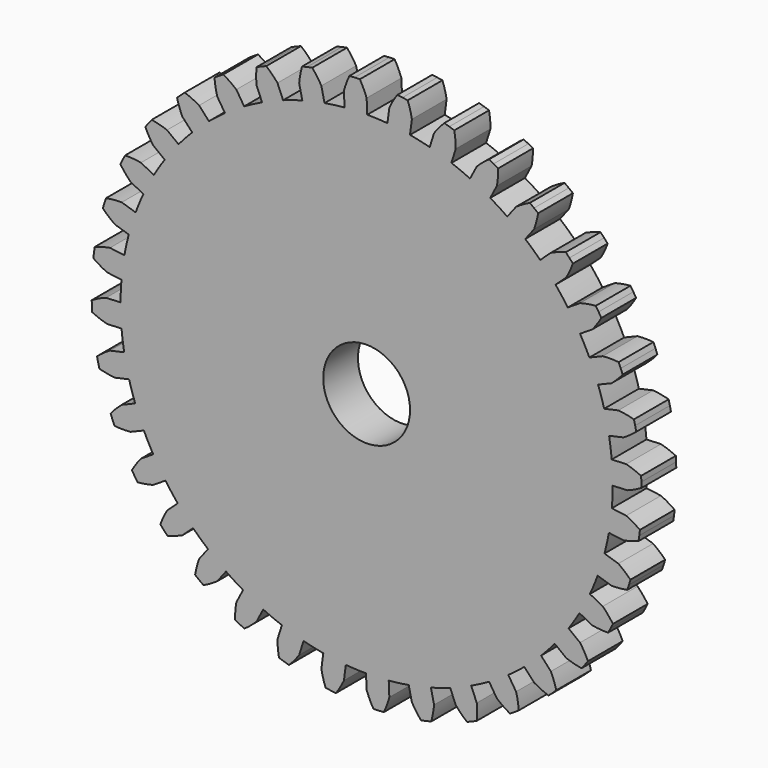
from build123d import *

# Parameters (mm, degrees)
F0_R     = 6.35
F1_DEPTH = 6.35


with BuildPart() as f1:
    # F0 (on Front) → F1 (new body)
    with BuildSketch(Plane.XZ):
        with BuildLine():
            Line((-3.320609, 37.954731), (-3.228016, 35.834))
            ThreePointArc((-3.228016, 35.834), (-4.696215, 35.671294), (-6.156498, 35.448458))
            ThreePointArc((-6.156498, 35.448458), (-7.787303, 35.126252), (-9.401484, 34.729062))
            ThreePointArc((-9.401484, 34.729062), (-10.819124, 34.313878), (-12.218527, 33.840852))
            ThreePointArc((-12.218527, 33.840852), (-13.768605, 33.240354), (-15.289292, 32.568899))
            ThreePointArc((-15.289292, 32.568899), (-16.6133, 31.913851), (-17.909302, 31.205008))
            ThreePointArc((-17.909302, 31.205008), (-19.331556, 30.344465), (-20.712543, 29.419146))
            ThreePointArc((-20.712543, 29.419146), (-21.902688, 28.544139), (-23.055913, 27.621016))
            ThreePointArc((-23.055913, 27.621016), (-24.307128, 26.526575), (-25.506455, 25.375508))
            ThreePointArc((-25.506455, 25.375508), (-26.526575, 24.307128), (-27.501981, 23.197774))
            ThreePointArc((-27.501981, 23.197774), (-28.544139, 21.902688), (-29.525365, 20.560848))
            ThreePointArc((-29.525365, 20.560848), (-30.344465, 19.331556), (-31.112415, 18.069678))
            ThreePointArc((-31.112415, 18.069678), (-31.913851, 16.6133), (-32.647162, 15.121456))
            ThreePointArc((-32.647162, 15.121456), (-33.240354, 13.768605), (-33.777514, 12.392545))
            ThreePointArc((-33.777514, 12.392545), (-34.313878, 10.819124), (-34.776992, 9.222607))
            ThreePointArc((-34.776992, 9.222607), (-35.126252, 7.787303), (-35.416301, 6.338871))
            ThreePointArc((-35.416301, 6.338871), (-35.671294, 4.696215), (-35.85014, 3.043534))
            ThreePointArc((-35.85014, 3.043534), (-35.944856, 1.569386), (-35.978981, 0.092593))
            ThreePointArc((-35.978981, 0.092593), (-35.944856, -1.569386), (-35.834, -3.228016))
            ThreePointArc((-35.834, -3.228016), (-35.671294, -4.696215), (-35.448458, -6.156498))
            ThreePointArc((-35.448458, -6.156498), (-35.126252, -7.787303), (-34.729062, -9.401484))
            ThreePointArc((-34.729062, -9.401484), (-34.313878, -10.819124), (-33.840852, -12.218527))
            ThreePointArc((-33.840852, -12.218527), (-33.240354, -13.768605), (-32.568899, -15.289292))
            ThreePointArc((-32.568899, -15.289292), (-31.913851, -16.6133), (-31.205008, -17.909302))
            ThreePointArc((-31.205008, -17.909302), (-30.344465, -19.331556), (-29.419146, -20.712543))
            ThreePointArc((-29.419146, -20.712543), (-28.544139, -21.902688), (-27.621016, -23.055913))
            ThreePointArc((-27.621016, -23.055913), (-26.526575, -24.307128), (-25.375508, -25.506455))
            ThreePointArc((-25.375508, -25.506455), (-24.307128, -26.526575), (-23.197774, -27.501981))
            ThreePointArc((-23.197774, -27.501981), (-21.902688, -28.544139), (-20.560848, -29.525365))
            ThreePointArc((-20.560848, -29.525365), (-19.331556, -30.344465), (-18.069678, -31.112415))
            ThreePointArc((-18.069678, -31.112415), (-16.6133, -31.913851), (-15.121456, -32.647162))
            ThreePointArc((-15.121456, -32.647162), (-13.768605, -33.240354), (-12.392545, -33.777514))
            ThreePointArc((-12.392545, -33.777514), (-10.819124, -34.313878), (-9.222607, -34.776992))
            ThreePointArc((-9.222607, -34.776992), (-7.787303, -35.126252), (-6.338871, -35.416301))
            ThreePointArc((-6.338871, -35.416301), (-4.696215, -35.671294), (-3.043534, -35.85014))
            ThreePointArc((-3.043534, -35.85014), (-1.569386, -35.944856), (-0.092593, -35.978981))
            ThreePointArc((-0.092593, -35.978981), (1.569386, -35.944856), (3.228016, -35.834))
            ThreePointArc((3.228016, -35.834), (4.696215, -35.671294), (6.156498, -35.448458))
            ThreePointArc((6.156498, -35.448458), (7.787303, -35.126252), (9.401484, -34.729062))
            ThreePointArc((9.401484, -34.729062), (10.819124, -34.313878), (12.218527, -33.840852))
            ThreePointArc((12.218527, -33.840852), (13.768605, -33.240354), (15.289292, -32.568899))
            ThreePointArc((15.289292, -32.568899), (16.6133, -31.913851), (17.909302, -31.205008))
            ThreePointArc((17.909302, -31.205008), (19.331556, -30.344465), (20.712543, -29.419146))
            ThreePointArc((20.712543, -29.419146), (21.902688, -28.544139), (23.055913, -27.621016))
            ThreePointArc((23.055913, -27.621016), (24.307128, -26.526575), (25.506455, -25.375508))
            ThreePointArc((25.506455, -25.375508), (26.526575, -24.307128), (27.501981, -23.197774))
            ThreePointArc((27.501981, -23.197774), (28.544139, -21.902688), (29.525365, -20.560848))
            ThreePointArc((29.525365, -20.560848), (30.344465, -19.331556), (31.112415, -18.069678))
            ThreePointArc((31.112415, -18.069678), (31.913851, -16.6133), (32.647162, -15.121456))
            ThreePointArc((32.647162, -15.121456), (33.240354, -13.768605), (33.777514, -12.392545))
            ThreePointArc((33.777514, -12.392545), (34.313878, -10.819124), (34.776992, -9.222607))
            ThreePointArc((34.776992, -9.222607), (35.126252, -7.787303), (35.416301, -6.338871))
            ThreePointArc((35.416301, -6.338871), (35.671294, -4.696215), (35.85014, -3.043534))
            ThreePointArc((35.85014, -3.043534), (35.944856, -1.569386), (35.978981, -0.092593))
            ThreePointArc((35.978981, -0.092593), (35.944856, 1.569386), (35.834, 3.228016))
            ThreePointArc((35.834, 3.228016), (35.671294, 4.696215), (35.448458, 6.156498))
            ThreePointArc((35.448458, 6.156498), (35.126252, 7.787303), (34.729062, 9.401484))
            ThreePointArc((34.729062, 9.401484), (34.313878, 10.819124), (33.840852, 12.218527))
            ThreePointArc((33.840852, 12.218527), (33.240354, 13.768605), (32.568899, 15.289292))
            ThreePointArc((32.568899, 15.289292), (31.913851, 16.6133), (31.205008, 17.909302))
            ThreePointArc((31.205008, 17.909302), (30.344465, 19.331556), (29.419146, 20.712543))
            ThreePointArc((29.419146, 20.712543), (28.544139, 21.902688), (27.621016, 23.055913))
            ThreePointArc((27.621016, 23.055913), (26.526575, 24.307128), (25.375508, 25.506455))
            ThreePointArc((25.375508, 25.506455), (24.307128, 26.526575), (23.197774, 27.501981))
            ThreePointArc((23.197774, 27.501981), (21.902688, 28.544139), (20.560848, 29.525365))
            ThreePointArc((20.560848, 29.525365), (19.331556, 30.344465), (18.069678, 31.112415))
            ThreePointArc((18.069678, 31.112415), (16.6133, 31.913851), (15.121456, 32.647162))
            ThreePointArc((15.121456, 32.647162), (13.768605, 33.240354), (12.392545, 33.777514))
            ThreePointArc((12.392545, 33.777514), (10.819124, 34.313878), (9.222607, 34.776992))
            ThreePointArc((9.222607, 34.776992), (7.787303, 35.126252), (6.338871, 35.416301))
            ThreePointArc((6.338871, 35.416301), (4.696215, 35.671294), (3.043534, 35.85014))
            ThreePointArc((3.043534, 35.85014), (1.569386, 35.944856), (0.092593, 35.978981))
            Line((0.092593, 35.978981), (0, 38.099712))
            ThreePointArc((0, 38.099712), (-0.446226, 39.170474), (-0.988291, 40.196052))
            Line((-0.988291, 40.196052), (-1.754175, 40.177222))
            Line((-1.754175, 40.177222), (-2.518786, 40.12923))
            ThreePointArc((-2.518786, 40.12923), (-2.969404, 39.060309), (-3.320609, 37.954731))
        make_face()
        Circle(F0_R, mode=Mode.SUBTRACT)
        with BuildLine():
            ThreePointArc((-9.401484, 34.729062), (-7.787303, 35.126252), (-6.156498, 35.448458))
            Line((-6.156498, 35.448458), (-6.615946, 37.520892))
            ThreePointArc((-6.615946, 37.520892), (-7.241328, 38.4979), (-7.953248, 39.413769))
            Line((-7.953248, 39.413769), (-8.704227, 39.26223))
            Line((-8.704227, 39.26223), (-9.448888, 39.082194))
            ThreePointArc((-9.448888, 39.082194), (-9.707044, 37.951264), (-9.860931, 36.801496))
            Line((-9.860931, 36.801496), (-9.401484, 34.729062))
        make_face()
        with BuildLine():
            ThreePointArc((-15.289292, 32.568899), (-13.768605, 33.240354), (-12.218527, 33.840852))
            Line((-12.218527, 33.840852), (-13.030869, 35.802019))
            ThreePointArc((-13.030869, 35.802019), (-13.816406, 36.655587), (-14.67655, 37.433918))
            Line((-14.67655, 37.433918), (-15.389805, 37.154275))
            Line((-15.389805, 37.154275), (-16.09189, 36.847665))
            ThreePointArc((-16.09189, 36.847665), (-16.14974, 35.689088), (-16.101634, 34.530066))
            Line((-16.101634, 34.530066), (-15.289292, 32.568899))
        make_face()
        with BuildLine():
            ThreePointArc((-20.712543, 29.419146), (-19.331556, 30.344465), (-17.909302, 31.205008))
            Line((-17.909302, 31.205008), (-19.049856, 32.995319))
            ThreePointArc((-19.049856, 32.995319), (-19.97168, 33.699512), (-20.953912, 34.316657))
            Line((-20.953912, 34.316657), (-21.607771, 33.917407))
            Line((-21.607771, 33.917407), (-22.245948, 33.493539))
            ThreePointArc((-22.245948, 33.493539), (-22.101734, 32.342518), (-21.853097, 31.209457))
            Line((-21.853097, 31.209457), (-20.712543, 29.419146))
        make_face()
        with BuildLine():
            ThreePointArc((-25.506455, 25.375508), (-24.307128, 26.526575), (-23.055913, 27.621016))
            Line((-23.055913, 27.621016), (-24.490023, 29.186073))
            ThreePointArc((-24.490023, 29.186073), (-25.520124, 29.719495), (-26.5946, 30.156701))
            Line((-26.5946, 30.156701), (-27.169197, 29.649975))
            Line((-27.169197, 29.649975), (-27.724074, 29.121729))
            ThreePointArc((-27.724074, 29.121729), (-27.382178, 28.013237), (-26.940565, 26.940565))
            Line((-26.940565, 26.940565), (-25.506455, 25.375508))
        make_face()
        with BuildLine():
            Line((3.320609, 37.954731), (3.043534, 35.85014))
            ThreePointArc((3.043534, 35.85014), (4.696215, 35.671294), (6.338871, 35.416301))
            Line((6.338871, 35.416301), (6.615946, 37.520892))
            ThreePointArc((6.615946, 37.520892), (6.362435, 38.652872), (6.006694, 39.756999))
            Line((6.006694, 39.756999), (5.249176, 39.871449))
            Line((5.249176, 39.871449), (4.487847, 39.956959))
            ThreePointArc((4.487847, 39.956959), (3.858459, 38.982527), (3.320609, 37.954731))
        make_face()
        with BuildLine():
            ThreePointArc((-29.525365, 20.560848), (-28.544139, 21.902688), (-27.501981, 23.197774))
            Line((-27.501981, 23.197774), (-29.186073, 24.490023))
            ThreePointArc((-29.186073, 24.490023), (-30.293152, 24.836466), (-31.427224, 25.080449))
            Line((-31.427224, 25.080449), (-31.9051, 24.481644))
            Line((-31.9051, 24.481644), (-32.359818, 23.865069))
            ThreePointArc((-32.359818, 23.865069), (-31.830629, 22.832787), (-31.209457, 21.853097))
            Line((-31.209457, 21.853097), (-29.525365, 20.560848))
        make_face()
        with BuildLine():
            Line((9.860931, 36.801496), (9.222607, 34.776992))
            ThreePointArc((9.222607, 34.776992), (10.819124, 34.313878), (12.392545, 33.777514))
            Line((12.392545, 33.777514), (13.030869, 35.802019))
            ThreePointArc((13.030869, 35.802019), (12.977776, 36.960823), (12.819169, 38.109949))
            Line((12.819169, 38.109949), (12.093033, 38.354202))
            Line((12.093033, 38.354202), (11.35812, 38.570616))
            ThreePointArc((11.35812, 38.570616), (10.569086, 37.72028), (9.860931, 36.801496))
        make_face()
        with BuildLine():
            ThreePointArc((-32.647162, 15.121456), (-31.913851, 16.6133), (-31.112415, 18.069678))
            Line((-31.112415, 18.069678), (-32.995319, 19.049856))
            ThreePointArc((-32.995319, 19.049856), (-34.145738, 19.198794), (-35.304948, 19.242141))
            Line((-35.304948, 19.242141), (-35.671582, 18.56945))
            Line((-35.671582, 18.56945), (-36.012325, 17.883282))
            ThreePointArc((-36.012325, 17.883282), (-35.311922, 16.958575), (-34.530066, 16.101634))
            Line((-34.530066, 16.101634), (-32.647162, 15.121456))
        make_face()
        with BuildLine():
            Line((16.101634, 34.530066), (15.121456, 32.647162))
            ThreePointArc((15.121456, 32.647162), (16.6133, 31.913851), (18.069678, 31.112415))
            Line((18.069678, 31.112415), (19.049856, 32.995319))
            ThreePointArc((19.049856, 32.995319), (19.198794, 34.145738), (19.242141, 35.304948))
            Line((19.242141, 35.304948), (18.56945, 35.671582))
            Line((18.56945, 35.671582), (17.883282, 36.012325))
            ThreePointArc((17.883282, 36.012325), (16.958575, 35.311922), (16.101634, 34.530066))
        make_face()
        with BuildLine():
            ThreePointArc((-34.776992, 9.222607), (-34.313878, 10.819124), (-33.777514, 12.392545))
            Line((-33.777514, 12.392545), (-35.802019, 13.030869))
            ThreePointArc((-35.802019, 13.030869), (-36.960823, 12.977776), (-38.109949, 12.819169))
            Line((-38.109949, 12.819169), (-38.354202, 12.093033))
            Line((-38.354202, 12.093033), (-38.570616, 11.35812))
            ThreePointArc((-38.570616, 11.35812), (-37.72028, 10.569086), (-36.801496, 9.860931))
            Line((-36.801496, 9.860931), (-34.776992, 9.222607))
        make_face()
        with BuildLine():
            Line((21.853097, 31.209457), (20.560848, 29.525365))
            ThreePointArc((20.560848, 29.525365), (21.902688, 28.544139), (23.197774, 27.501981))
            Line((23.197774, 27.501981), (24.490023, 29.186073))
            ThreePointArc((24.490023, 29.186073), (24.836466, 30.293152), (25.080449, 31.427224))
            Line((25.080449, 31.427224), (24.481644, 31.9051))
            Line((24.481644, 31.9051), (23.865069, 32.359818))
            ThreePointArc((23.865069, 32.359818), (22.832787, 31.830629), (21.853097, 31.209457))
        make_face()
        with BuildLine():
            ThreePointArc((-35.85014, 3.043534), (-35.671294, 4.696215), (-35.416301, 6.338871))
            Line((-35.416301, 6.338871), (-37.520892, 6.615946))
            ThreePointArc((-37.520892, 6.615946), (-38.652872, 6.362435), (-39.756999, 6.006694))
            Line((-39.756999, 6.006694), (-39.871449, 5.249176))
            Line((-39.871449, 5.249176), (-39.956959, 4.487847))
            ThreePointArc((-39.956959, 4.487847), (-38.982527, 3.858459), (-37.954731, 3.320609))
            Line((-37.954731, 3.320609), (-35.85014, 3.043534))
        make_face()
        with BuildLine():
            Line((26.940565, 26.940565), (25.375508, 25.506455))
            ThreePointArc((25.375508, 25.506455), (26.526575, 24.307128), (27.621016, 23.055913))
            Line((27.621016, 23.055913), (29.186073, 24.490023))
            ThreePointArc((29.186073, 24.490023), (29.719495, 25.520124), (30.156701, 26.5946))
            Line((30.156701, 26.5946), (29.649975, 27.169197))
            Line((29.649975, 27.169197), (29.121729, 27.724074))
            ThreePointArc((29.121729, 27.724074), (28.013237, 27.382178), (26.940565, 26.940565))
        make_face()
        with BuildLine():
            ThreePointArc((-35.834, -3.228016), (-35.944856, -1.569386), (-35.978981, 0.092593))
            Line((-35.978981, 0.092593), (-38.099712, 0))
            ThreePointArc((-38.099712, 0), (-39.170474, -0.446226), (-40.196052, -0.988291))
            Line((-40.196052, -0.988291), (-40.177222, -1.754175))
            Line((-40.177222, -1.754175), (-40.12923, -2.518786))
            ThreePointArc((-40.12923, -2.518786), (-39.060309, -2.969404), (-37.954731, -3.320609))
            Line((-37.954731, -3.320609), (-35.834, -3.228016))
        make_face()
        with BuildLine():
            Line((31.209457, 21.853097), (29.419146, 20.712543))
            ThreePointArc((29.419146, 20.712543), (30.344465, 19.331556), (31.205008, 17.909302))
            Line((31.205008, 17.909302), (32.995319, 19.049856))
            ThreePointArc((32.995319, 19.049856), (33.699512, 19.97168), (34.316657, 20.953912))
            Line((34.316657, 20.953912), (33.917407, 21.607771))
            Line((33.917407, 21.607771), (33.493539, 22.245948))
            ThreePointArc((33.493539, 22.245948), (32.342518, 22.101734), (31.209457, 21.853097))
        make_face()
        with BuildLine():
            ThreePointArc((-34.729062, -9.401484), (-35.126252, -7.787303), (-35.448458, -6.156498))
            Line((-35.448458, -6.156498), (-37.520892, -6.615946))
            ThreePointArc((-37.520892, -6.615946), (-38.4979, -7.241328), (-39.413769, -7.953248))
            Line((-39.413769, -7.953248), (-39.26223, -8.704227))
            Line((-39.26223, -8.704227), (-39.082194, -9.448888))
            ThreePointArc((-39.082194, -9.448888), (-37.951264, -9.707044), (-36.801496, -9.860931))
            Line((-36.801496, -9.860931), (-34.729062, -9.401484))
        make_face()
        with BuildLine():
            Line((34.530066, 16.101634), (32.568899, 15.289292))
            ThreePointArc((32.568899, 15.289292), (33.240354, 13.768605), (33.840852, 12.218527))
            Line((33.840852, 12.218527), (35.802019, 13.030869))
            ThreePointArc((35.802019, 13.030869), (36.655587, 13.816406), (37.433918, 14.67655))
            Line((37.433918, 14.67655), (37.154275, 15.389805))
            Line((37.154275, 15.389805), (36.847665, 16.09189))
            ThreePointArc((36.847665, 16.09189), (35.689088, 16.14974), (34.530066, 16.101634))
        make_face()
        with BuildLine():
            ThreePointArc((-32.568899, -15.289292), (-33.240354, -13.768605), (-33.840852, -12.218527))
            Line((-33.840852, -12.218527), (-35.802019, -13.030869))
            ThreePointArc((-35.802019, -13.030869), (-36.655587, -13.816406), (-37.433918, -14.67655))
            Line((-37.433918, -14.67655), (-37.154275, -15.389805))
            Line((-37.154275, -15.389805), (-36.847665, -16.09189))
            ThreePointArc((-36.847665, -16.09189), (-35.689088, -16.14974), (-34.530066, -16.101634))
            Line((-34.530066, -16.101634), (-32.568899, -15.289292))
        make_face()
        with BuildLine():
            Line((36.801496, 9.860931), (34.729062, 9.401484))
            ThreePointArc((34.729062, 9.401484), (35.126252, 7.787303), (35.448458, 6.156498))
            Line((35.448458, 6.156498), (37.520892, 6.615946))
            ThreePointArc((37.520892, 6.615946), (38.4979, 7.241328), (39.413769, 7.953248))
            Line((39.413769, 7.953248), (39.26223, 8.704227))
            Line((39.26223, 8.704227), (39.082194, 9.448888))
            ThreePointArc((39.082194, 9.448888), (37.951264, 9.707044), (36.801496, 9.860931))
        make_face()
        with BuildLine():
            ThreePointArc((-29.419146, -20.712543), (-30.344465, -19.331556), (-31.205008, -17.909302))
            Line((-31.205008, -17.909302), (-32.995319, -19.049856))
            ThreePointArc((-32.995319, -19.049856), (-33.699512, -19.97168), (-34.316657, -20.953912))
            Line((-34.316657, -20.953912), (-33.917407, -21.607771))
            Line((-33.917407, -21.607771), (-33.493539, -22.245948))
            ThreePointArc((-33.493539, -22.245948), (-32.342518, -22.101734), (-31.209457, -21.853097))
            Line((-31.209457, -21.853097), (-29.419146, -20.712543))
        make_face()
        with BuildLine():
            Line((37.954731, 3.320609), (35.834, 3.228016))
            ThreePointArc((35.834, 3.228016), (35.944856, 1.569386), (35.978981, -0.092593))
            Line((35.978981, -0.092593), (38.099712, 0))
            ThreePointArc((38.099712, 0), (39.170474, 0.446226), (40.196052, 0.988291))
            Line((40.196052, 0.988291), (40.177222, 1.754175))
            Line((40.177222, 1.754175), (40.12923, 2.518786))
            ThreePointArc((40.12923, 2.518786), (39.060309, 2.969404), (37.954731, 3.320609))
        make_face()
        with BuildLine():
            ThreePointArc((-25.375508, -25.506455), (-26.526575, -24.307128), (-27.621016, -23.055913))
            Line((-27.621016, -23.055913), (-29.186073, -24.490023))
            ThreePointArc((-29.186073, -24.490023), (-29.719495, -25.520124), (-30.156701, -26.5946))
            Line((-30.156701, -26.5946), (-29.649975, -27.169197))
            Line((-29.649975, -27.169197), (-29.121729, -27.724074))
            ThreePointArc((-29.121729, -27.724074), (-28.013237, -27.382178), (-26.940565, -26.940565))
            Line((-26.940565, -26.940565), (-25.375508, -25.506455))
        make_face()
        with BuildLine():
            Line((37.954731, -3.320609), (35.85014, -3.043534))
            ThreePointArc((35.85014, -3.043534), (35.671294, -4.696215), (35.416301, -6.338871))
            Line((35.416301, -6.338871), (37.520892, -6.615946))
            ThreePointArc((37.520892, -6.615946), (38.652872, -6.362435), (39.756999, -6.006694))
            Line((39.756999, -6.006694), (39.871449, -5.249176))
            Line((39.871449, -5.249176), (39.956959, -4.487847))
            ThreePointArc((39.956959, -4.487847), (38.982527, -3.858459), (37.954731, -3.320609))
        make_face()
        with BuildLine():
            ThreePointArc((-20.560848, -29.525365), (-21.902688, -28.544139), (-23.197774, -27.501981))
            Line((-23.197774, -27.501981), (-24.490023, -29.186073))
            ThreePointArc((-24.490023, -29.186073), (-24.836466, -30.293152), (-25.080449, -31.427224))
            Line((-25.080449, -31.427224), (-24.481644, -31.9051))
            Line((-24.481644, -31.9051), (-23.865069, -32.359818))
            ThreePointArc((-23.865069, -32.359818), (-22.832787, -31.830629), (-21.853097, -31.209457))
            Line((-21.853097, -31.209457), (-20.560848, -29.525365))
        make_face()
        with BuildLine():
            Line((36.801496, -9.860931), (34.776992, -9.222607))
            ThreePointArc((34.776992, -9.222607), (34.313878, -10.819124), (33.777514, -12.392545))
            Line((33.777514, -12.392545), (35.802019, -13.030869))
            ThreePointArc((35.802019, -13.030869), (36.960823, -12.977776), (38.109949, -12.819169))
            Line((38.109949, -12.819169), (38.354202, -12.093033))
            Line((38.354202, -12.093033), (38.570616, -11.35812))
            ThreePointArc((38.570616, -11.35812), (37.72028, -10.569086), (36.801496, -9.860931))
        make_face()
        with BuildLine():
            ThreePointArc((-15.121456, -32.647162), (-16.6133, -31.913851), (-18.069678, -31.112415))
            Line((-18.069678, -31.112415), (-19.049856, -32.995319))
            ThreePointArc((-19.049856, -32.995319), (-19.198794, -34.145738), (-19.242141, -35.304948))
            Line((-19.242141, -35.304948), (-18.56945, -35.671582))
            Line((-18.56945, -35.671582), (-17.883282, -36.012325))
            ThreePointArc((-17.883282, -36.012325), (-16.958575, -35.311922), (-16.101634, -34.530066))
            Line((-16.101634, -34.530066), (-15.121456, -32.647162))
        make_face()
        with BuildLine():
            Line((34.530066, -16.101634), (32.647162, -15.121456))
            ThreePointArc((32.647162, -15.121456), (31.913851, -16.6133), (31.112415, -18.069678))
            Line((31.112415, -18.069678), (32.995319, -19.049856))
            ThreePointArc((32.995319, -19.049856), (34.145738, -19.198794), (35.304948, -19.242141))
            Line((35.304948, -19.242141), (35.671582, -18.56945))
            Line((35.671582, -18.56945), (36.012325, -17.883282))
            ThreePointArc((36.012325, -17.883282), (35.311922, -16.958575), (34.530066, -16.101634))
        make_face()
        with BuildLine():
            ThreePointArc((-9.222607, -34.776992), (-10.819124, -34.313878), (-12.392545, -33.777514))
            Line((-12.392545, -33.777514), (-13.030869, -35.802019))
            ThreePointArc((-13.030869, -35.802019), (-12.977776, -36.960823), (-12.819169, -38.109949))
            Line((-12.819169, -38.109949), (-12.093033, -38.354202))
            Line((-12.093033, -38.354202), (-11.35812, -38.570616))
            ThreePointArc((-11.35812, -38.570616), (-10.569086, -37.72028), (-9.860931, -36.801496))
            Line((-9.860931, -36.801496), (-9.222607, -34.776992))
        make_face()
        with BuildLine():
            Line((31.209457, -21.853097), (29.525365, -20.560848))
            ThreePointArc((29.525365, -20.560848), (28.544139, -21.902688), (27.501981, -23.197774))
            Line((27.501981, -23.197774), (29.186073, -24.490023))
            ThreePointArc((29.186073, -24.490023), (30.293152, -24.836466), (31.427224, -25.080449))
            Line((31.427224, -25.080449), (31.9051, -24.481644))
            Line((31.9051, -24.481644), (32.359818, -23.865069))
            ThreePointArc((32.359818, -23.865069), (31.830629, -22.832787), (31.209457, -21.853097))
        make_face()
        with BuildLine():
            ThreePointArc((-3.043534, -35.85014), (-4.696215, -35.671294), (-6.338871, -35.416301))
            Line((-6.338871, -35.416301), (-6.615946, -37.520892))
            ThreePointArc((-6.615946, -37.520892), (-6.362435, -38.652872), (-6.006694, -39.756999))
            Line((-6.006694, -39.756999), (-5.249176, -39.871449))
            Line((-5.249176, -39.871449), (-4.487847, -39.956959))
            ThreePointArc((-4.487847, -39.956959), (-3.858459, -38.982527), (-3.320609, -37.954731))
            Line((-3.320609, -37.954731), (-3.043534, -35.85014))
        make_face()
        with BuildLine():
            Line((26.940565, -26.940565), (25.506455, -25.375508))
            ThreePointArc((25.506455, -25.375508), (24.307128, -26.526575), (23.055913, -27.621016))
            Line((23.055913, -27.621016), (24.490023, -29.186073))
            ThreePointArc((24.490023, -29.186073), (25.520124, -29.719495), (26.5946, -30.156701))
            Line((26.5946, -30.156701), (27.169197, -29.649975))
            Line((27.169197, -29.649975), (27.724074, -29.121729))
            ThreePointArc((27.724074, -29.121729), (27.382178, -28.013237), (26.940565, -26.940565))
        make_face()
        with BuildLine():
            ThreePointArc((3.228016, -35.834), (1.569386, -35.944856), (-0.092593, -35.978981))
            Line((-0.092593, -35.978981), (0, -38.099712))
            ThreePointArc((0, -38.099712), (0.446226, -39.170474), (0.988291, -40.196052))
            Line((0.988291, -40.196052), (1.754175, -40.177222))
            Line((1.754175, -40.177222), (2.518786, -40.12923))
            ThreePointArc((2.518786, -40.12923), (2.969404, -39.060309), (3.320609, -37.954731))
            Line((3.320609, -37.954731), (3.228016, -35.834))
        make_face()
        with BuildLine():
            Line((21.853097, -31.209457), (20.712543, -29.419146))
            ThreePointArc((20.712543, -29.419146), (19.331556, -30.344465), (17.909302, -31.205008))
            Line((17.909302, -31.205008), (19.049856, -32.995319))
            ThreePointArc((19.049856, -32.995319), (19.97168, -33.699512), (20.953912, -34.316657))
            Line((20.953912, -34.316657), (21.607771, -33.917407))
            Line((21.607771, -33.917407), (22.245948, -33.493539))
            ThreePointArc((22.245948, -33.493539), (22.101734, -32.342518), (21.853097, -31.209457))
        make_face()
        with BuildLine():
            ThreePointArc((9.401484, -34.729062), (7.787303, -35.126252), (6.156498, -35.448458))
            Line((6.156498, -35.448458), (6.615946, -37.520892))
            ThreePointArc((6.615946, -37.520892), (7.241328, -38.4979), (7.953248, -39.413769))
            Line((7.953248, -39.413769), (8.704227, -39.26223))
            Line((8.704227, -39.26223), (9.448888, -39.082194))
            ThreePointArc((9.448888, -39.082194), (9.707044, -37.951264), (9.860931, -36.801496))
            Line((9.860931, -36.801496), (9.401484, -34.729062))
        make_face()
        with BuildLine():
            Line((16.101634, -34.530066), (15.289292, -32.568899))
            ThreePointArc((15.289292, -32.568899), (13.768605, -33.240354), (12.218527, -33.840852))
            Line((12.218527, -33.840852), (13.030869, -35.802019))
            ThreePointArc((13.030869, -35.802019), (13.816406, -36.655587), (14.67655, -37.433918))
            Line((14.67655, -37.433918), (15.389805, -37.154275))
            Line((15.389805, -37.154275), (16.09189, -36.847665))
            ThreePointArc((16.09189, -36.847665), (16.14974, -35.689088), (16.101634, -34.530066))
        make_face()
    extrude(amount=F1_DEPTH)


solid = f1.part
